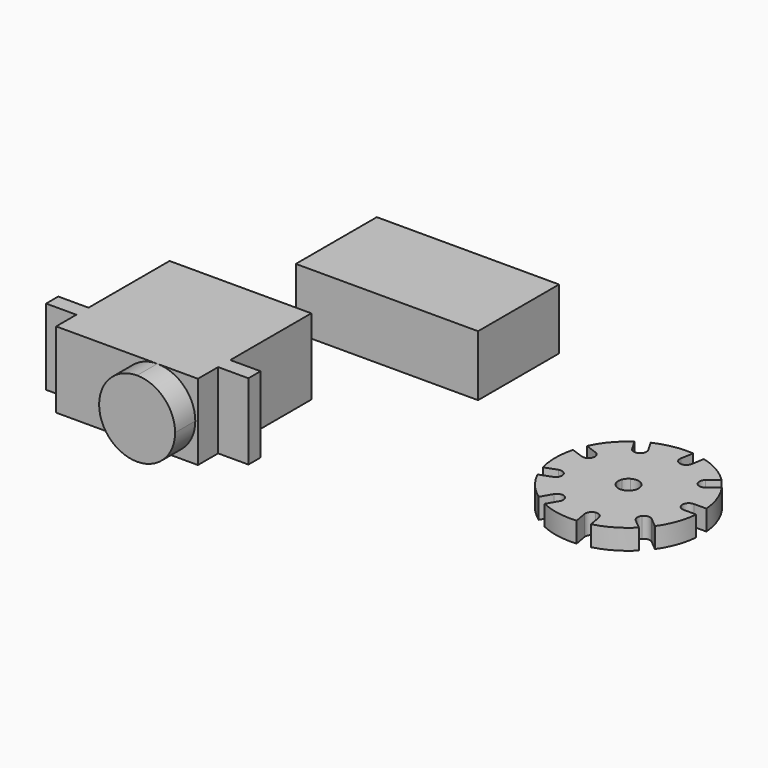
from build123d import *

# Parameters (mm, degrees)
F1_DEPTH = 3.175
F2_W     = 4.7498
F2_H     = 2.3876
F3_DEPTH = 11.9126
F5_DEPTH = 3.9624
F6_W     = 28.575
F6_H     = 15.875
F7_DEPTH = 9.525


with BuildPart() as f1:
    # F0 (on Top) → F1 (new body)
    with BuildSketch(Plane.XY):
        with BuildLine():
            Line((6.603346, 6.846273), (8.101946, 8.103747))
            ThreePointArc((8.101946, 8.103747), (5.729578, 9.92392), (2.967078, 11.068365))
            Line((2.967078, 11.068365), (2.619782, 9.098749))
            ThreePointArc((2.619782, 9.098749), (1.461326, 8.28759), (0.650166, 9.446046))
            Line((0.650166, 9.446046), (0.997462, 11.415661))
            ThreePointArc((0.997462, 11.415661), (-1.989862, 11.285066), (-4.841694, 10.38606))
            Line((-4.841694, 10.38606), (-3.863553, 8.691869))
            ThreePointArc((-3.863553, 8.691869), (-3.763652, 8.450688), (-3.729578, 8.191869))
            ThreePointArc((-3.729578, 8.191869), (-3.863553, 7.691869), (-4.229578, 7.325844))
            Line((-4.229578, 7.325844), (-0.79375, 1.374815))
            ThreePointArc((-0.79375, 1.374815), (0.275666, 1.563382), (1.216096, 1.020425))
            Line((1.216096, 1.020425), (6.480089, 5.437441))
            ThreePointArc((6.480089, 5.437441), (6.249939, 6.167384), (6.603346, 6.846273))
        make_face()
        with BuildLine():
            Line((9.459156, 1), (11.415439, 1))
            ThreePointArc((11.415439, 1), (10.768084, 3.919262), (9.387521, 6.571658))
            Line((9.387521, 6.571658), (7.888921, 5.314184))
            ThreePointArc((7.888921, 5.314184), (7.158978, 5.084034), (6.480089, 5.437441))
            Line((6.480089, 5.437441), (1.216096, 1.020425))
            ThreePointArc((1.216096, 1.020425), (1.491762, 0.542957), (1.5875, 0))
            ThreePointArc((1.5875, 0), (1.491762, -0.542957), (1.216096, -1.020425))
            Line((1.216096, -1.020425), (6.480089, -5.437441))
            ThreePointArc((6.480089, -5.437441), (7.158978, -5.084034), (7.888921, -5.314184))
            Line((7.888921, -5.314184), (9.387521, -6.571658))
            ThreePointArc((9.387521, -6.571658), (10.768084, -3.919262), (11.415439, -1))
            Line((11.415439, -1), (9.459156, -1))
            ThreePointArc((9.459156, -1), (8.459156, 0), (9.459156, 1))
        make_face()
        with BuildLine():
            ThreePointArc((2.967078, -11.068365), (5.729578, -9.92392), (8.101946, -8.103747))
            Line((8.101946, -8.103747), (6.603346, -6.846273))
            ThreePointArc((6.603346, -6.846273), (6.249939, -6.167384), (6.480089, -5.437441))
            Line((6.480089, -5.437441), (1.216096, -1.020425))
            ThreePointArc((1.216096, -1.020425), (0.79375, -1.374815), (0.275666, -1.563382))
            Line((0.275666, -1.563382), (1.461326, -8.28759))
            ThreePointArc((1.461326, -8.28759), (2.20855, -8.453246), (2.619782, -9.098749))
            Line((2.619782, -9.098749), (2.967078, -11.068365))
        make_face()
        with BuildLine():
            Line((1.461326, -8.28759), (0.275666, -1.563382))
            ThreePointArc((0.275666, -1.563382), (-0.275666, -1.563382), (-0.79375, -1.374815))
            Line((-0.79375, -1.374815), (-4.20772, -7.287984))
            ThreePointArc((-4.20772, -7.287984), (-3.841694, -7.65401), (-3.70772, -8.15401))
            ThreePointArc((-3.70772, -8.15401), (-3.741794, -8.412829), (-3.841694, -8.65401))
            Line((-3.841694, -8.65401), (-4.841694, -10.38606))
            ThreePointArc((-4.841694, -10.38606), (-1.989862, -11.285066), (0.997462, -11.415661))
            Line((0.997462, -11.415661), (0.650166, -9.446046))
            ThreePointArc((0.650166, -9.446046), (0.815822, -8.698821), (1.461326, -8.28759))
        make_face()
        with BuildLine():
            ThreePointArc((-0.79375, -1.374815), (-1.216096, -1.020425), (-1.491762, -0.542957))
            Line((-1.491762, -0.542957), (-7.907926, -2.87825))
            ThreePointArc((-7.907926, -2.87825), (-7.862811, -3.046622), (-7.847619, -3.22027))
            ThreePointArc((-7.847619, -3.22027), (-8.028467, -3.793846), (-8.505599, -4.159963))
            Line((-8.505599, -4.159963), (-10.384984, -4.844003))
            ThreePointArc((-10.384984, -4.844003), (-8.778223, -7.365803), (-6.573745, -9.38606))
            Line((-6.573745, -9.38606), (-5.573745, -7.65401))
            ThreePointArc((-5.573745, -7.65401), (-4.966539, -7.188084), (-4.20772, -7.287984))
            Line((-4.20772, -7.287984), (-0.79375, -1.374815))
        make_face()
        with BuildLine():
            Line((-7.907926, -2.87825), (-1.491762, -0.542957))
            ThreePointArc((-1.491762, -0.542957), (-1.5875, 0), (-1.491762, 0.542957))
            Line((-1.491762, 0.542957), (-7.907926, 2.87825))
            ThreePointArc((-7.907926, 2.87825), (-8.425001, 2.313962), (-9.189639, 2.280577))
            Line((-9.189639, 2.280577), (-11.069024, 2.964618))
            ThreePointArc((-11.069024, 2.964618), (-11.459156, 0), (-11.069024, -2.964618))
            Line((-11.069024, -2.964618), (-9.189639, -2.280577))
            ThreePointArc((-9.189639, -2.280577), (-8.425001, -2.313962), (-7.907926, -2.87825))
        make_face()
        with BuildLine():
            ThreePointArc((-1.491762, 0.542957), (-1.216096, 1.020425), (-0.79375, 1.374815))
            Line((-0.79375, 1.374815), (-4.229578, 7.325844))
            ThreePointArc((-4.229578, 7.325844), (-4.988397, 7.225943), (-5.595603, 7.691869))
            Line((-5.595603, 7.691869), (-6.573745, 9.38606))
            ThreePointArc((-6.573745, 9.38606), (-8.778223, 7.365803), (-10.384984, 4.844003))
            Line((-10.384984, 4.844003), (-8.505599, 4.159963))
            ThreePointArc((-8.505599, 4.159963), (-8.028467, 3.793846), (-7.847619, 3.22027))
            ThreePointArc((-7.847619, 3.22027), (-7.862811, 3.046622), (-7.907926, 2.87825))
            Line((-7.907926, 2.87825), (-1.491762, 0.542957))
        make_face()
    extrude(amount=F1_DEPTH)


with BuildPart() as f3:
    # F2 (on Top) → F3 (new body)
    with BuildSketch(Plane.XY):
        Polygon((-48.227002, -1.890479), (-70.452002, -1.890479), (-70.452002, -17.765479), (-70.452002, -20.153079), (-70.452002, -24.115479), (-48.227002, -24.115479), (-48.227002, -20.153079), (-48.227002, -17.765479), align=None)
        with Locations((-72.826902, -18.959279)):
            Rectangle(F2_W, F2_H)
        with Locations((-45.852102, -18.959279)):
            Rectangle(F2_W, F2_H)
    extrude(amount=F3_DEPTH)

    # F4 (on face) → F5 (join)
    with BuildSketch(Plane.XZ.offset(24.115479)):
        with BuildLine():
            ThreePointArc((-54.589702, 0), (-50.377962, 1.74456), (-48.633402, 5.9563))
            ThreePointArc((-48.633402, 5.9563), (-50.377962, 10.16804), (-54.589702, 11.9126))
            ThreePointArc((-54.589702, 11.9126), (-60.546002, 5.9563), (-54.589702, 0))
        make_face()
    extrude(amount=F5_DEPTH)


with BuildPart() as f7:
    # F6 (on Top) → F7 (new body)
    with BuildSketch(Plane.XY):
        with Locations((-46.471974, 18.676497)):
            Rectangle(F6_W, F6_H)
    extrude(amount=F7_DEPTH)


solid = Compound([f1.part, f3.part, f7.part])
